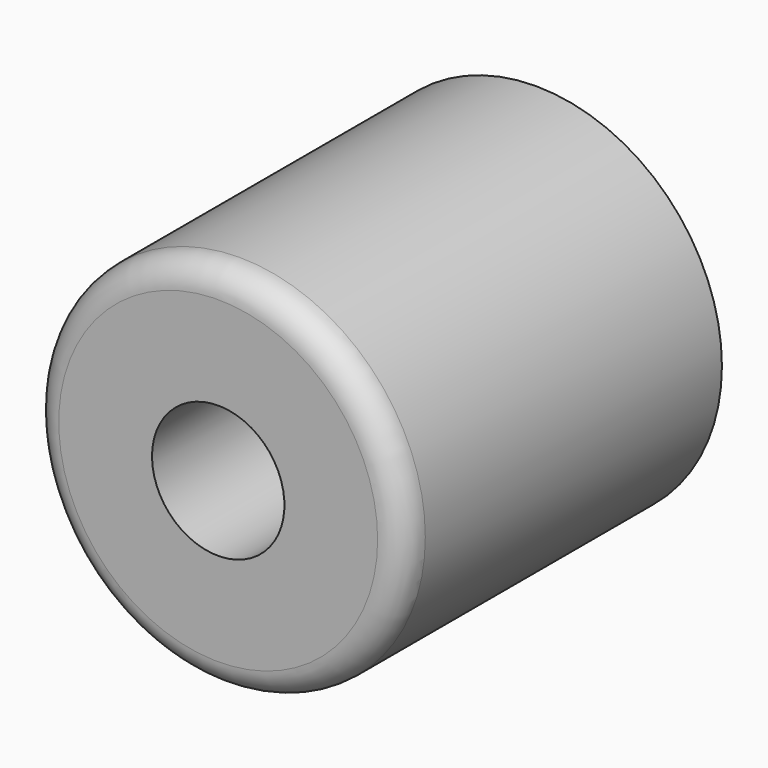
from build123d import *

# Parameters (mm, degrees)
F0_R     = 35.664624
F1_DEPTH = 76.2
F3_D     = 25.4
F4_R     = 5.08


with BuildPart() as f1:
    # F0 (on Front) → F1 (new body)
    with BuildSketch(Plane.XZ):
        with Locations((-92.187047, 32.669652)):
            Circle(F0_R)
    extrude(amount=-F1_DEPTH)

    # F3 (through all)
    with Locations(Plane.XZ):
        with Locations((-92.187047, 32.669652)):
            Hole(F3_D / 2)

    # F4
    f4_edges = [f1.edges().sort_by_distance(p)[0] for p in [
        (-127.851671, 0, 32.669652),
    ]]
    fillet(f4_edges, radius=F4_R)


solid = f1.part
